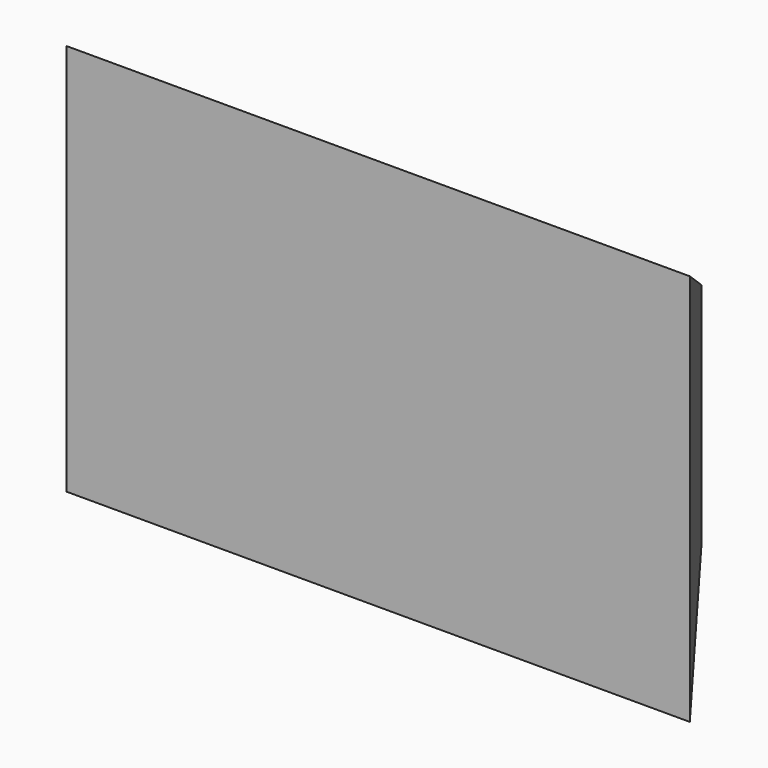
from build123d import *

# Parameters (mm, degrees)
F0_W     = 101.6
F0_H     = 50.8
F1_DEPTH = 25.4
F1_TAPER = -35


with BuildPart() as f1:
    # F0 (on Front) → F1 (new body)
    with BuildSketch(Plane.XZ):
        Rectangle(F0_W, F0_H)
    extrude(amount=F1_DEPTH, taper=F1_TAPER)


solid = f1.part
